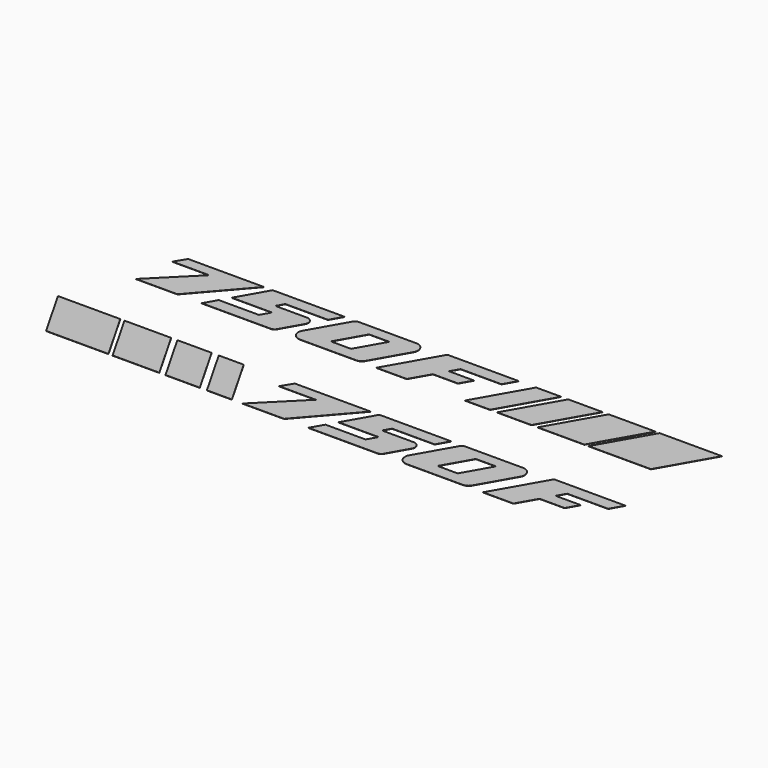
from build123d import *

# Parameters (mm, degrees)
F1_DEPTH = 1


with BuildPart() as f1:
    # F0 (on Top) → F1 (new body)
    with BuildSketch(Plane.XY):
        with BuildLine():
            ThreePointArc((500.434995, -201.892406), (491.315661, -204.70633), (484.353985, -211.234386))
            Line((484.353985, -211.234386), (391.37412, -374.029141))
            ThreePointArc((391.37412, -374.029141), (396.986116, -408.278941), (427.742094, -424.360394))
            Line((427.742094, -424.360394), (670.074493, -424.360394))
            ThreePointArc((670.074493, -424.360394), (683.938685, -420.306977), (694.564374, -410.522256))
            Line((694.564374, -410.522256), (784.046918, -253.850822))
            ThreePointArc((784.046918, -253.850822), (780.647239, -220.292596), (752.378081, -201.892406))
            Line((752.378081, -201.892406), (500.434995, -201.892406))
        make_face()
        Polygon((516.737572, -370.391047), (585.273436, -250.394323), (671.655706, -250.394323), (603.119842, -370.391047), align=None, mode=Mode.SUBTRACT)
        Polygon((-1121.464133, -424.360394), (-853.658855, -424.360394), (-980.720956, -201.892406), (-1248.526234, -201.892406), align=None)
        with BuildLine():
            ThreePointArc((-344.137906, 281.140864), (-353.257241, 278.326939), (-360.218916, 271.798883))
            Line((-360.218916, 271.798883), (-453.198781, 109.004128))
            ThreePointArc((-453.198781, 109.004128), (-447.586786, 74.754328), (-416.830808, 58.672875))
            Line((-416.830808, 58.672875), (-174.498409, 58.672875))
            ThreePointArc((-174.498409, 58.672875), (-160.634217, 62.726293), (-150.008528, 72.511013))
            Line((-150.008528, 72.511013), (-60.525984, 229.182448))
            ThreePointArc((-60.525984, 229.182448), (-63.925662, 262.740673), (-92.194821, 281.140864))
            Line((-92.194821, 281.140864), (-344.137906, 281.140864))
        make_face()
        Polygon((-327.83533, 112.642223), (-259.299466, 232.638947), (-172.917196, 232.638947), (-241.45306, 112.642223), align=None, mode=Mode.SUBTRACT)
        Polygon((-750.229657, 281.140864), (-1075.654507, 281.140864), (-1105.041742, 233.162016), (-946.868837, 233.162016), (-1121.464133, 58.672875), (-943.52003, 58.672875), align=None)
        with BuildLine():
            Line((-808.951381, 112.132645), (-839.484811, 58.672875))
            Line((-839.484811, 58.672875), (-542.356426, 58.672875))
            ThreePointArc((-542.356426, 58.672875), (-532.332828, 61.523635), (-524.876545, 68.803965))
            Line((-524.876545, 68.803965), (-472.90582, 159.797443))
            ThreePointArc((-472.90582, 159.797443), (-475.611862, 184.567635), (-496.87165, 197.564037))
            Line((-496.87165, 197.564037), (-634.469989, 197.564037))
            Line((-634.469989, 197.564037), (-616.429329, 229.150713))
            Line((-616.429329, 229.150713), (-433.294853, 229.150713))
            Line((-433.294853, 229.150713), (-403.600793, 281.140864))
            Line((-403.600793, 281.140864), (-712.42271, 281.140864))
            Line((-712.42271, 281.140864), (-785.590204, 153.034804))
            Line((-785.590204, 153.034804), (-613.237023, 153.034804))
            Line((-613.237023, 153.034804), (-636.598201, 112.132645))
            Line((-636.598201, 112.132645), (-808.951381, 112.132645))
        make_face()
        Polygon((526.288807, 281.140864), (418.912411, 281.140864), (291.85031, 58.672875), (399.226706, 58.672875), align=None)
        Polygon((704.088587, 281.140864), (556.712151, 281.140864), (429.65005, 58.672875), (577.026486, 58.672875), align=None)
        Polygon((931.314189, 281.140864), (730.634172, 281.140864), (603.572071, 58.672875), (804.252088, 58.672875), align=None)
        Polygon((1216.968197, 281.140864), (949.162919, 281.140864), (822.100818, 58.672875), (1089.906096, 58.672875), align=None)
        Polygon((344.11915, 281.140864), (37.90367, 281.140864), (-89.158431, 58.672875), (41.562274, 58.672875), (88.259261, 140.432776), (195.818674, 140.432776), (224.562711, 190.759569), (117.003298, 190.759569), (137.832541, 227.228664), (313.327316, 227.228664), align=None)
        Polygon((94.343245, -201.892406), (-231.081605, -201.892406), (-260.468841, -249.871254), (-102.295935, -249.871254), (-276.891232, -424.360394), (-98.947128, -424.360394), align=None)
        with BuildLine():
            Line((35.621521, -370.900625), (5.088091, -424.360394))
            Line((5.088091, -424.360394), (302.216476, -424.360394))
            ThreePointArc((302.216476, -424.360394), (312.240074, -421.509635), (319.696357, -414.229305))
            Line((319.696357, -414.229305), (371.667081, -323.235826))
            ThreePointArc((371.667081, -323.235826), (368.96104, -298.465634), (347.701252, -285.469233))
            Line((347.701252, -285.469233), (210.102912, -285.469233))
            Line((210.102912, -285.469233), (228.143573, -253.882556))
            Line((228.143573, -253.882556), (411.278049, -253.882556))
            Line((411.278049, -253.882556), (440.972108, -201.892406))
            Line((440.972108, -201.892406), (132.150192, -201.892406))
            Line((132.150192, -201.892406), (58.982698, -329.998466))
            Line((58.982698, -329.998466), (231.335878, -329.998466))
            Line((231.335878, -329.998466), (207.974701, -370.900625))
            Line((207.974701, -370.900625), (35.621521, -370.900625))
        make_face()
        Polygon((1188.692052, -201.892406), (882.476572, -201.892406), (755.414471, -424.360394), (886.135176, -424.360394), (932.832163, -342.600494), (1040.391576, -342.600494), (1069.135612, -292.273701), (961.5762, -292.273701), (982.405443, -255.804605), (1157.900218, -255.804605), align=None)
        Polygon((-430.784743, -424.360394), (-323.408347, -424.360394), (-450.470448, -201.892406), (-557.846844, -201.892406), align=None)
        Polygon((-461.208086, -424.360394), (-588.270187, -201.892406), (-735.646624, -201.892406), (-608.584523, -424.360394), align=None)
        Polygon((-835.810125, -424.360394), (-635.130107, -424.360394), (-762.192208, -201.892406), (-962.872226, -201.892406), align=None)
    extrude(amount=F1_DEPTH)


solid = f1.part
